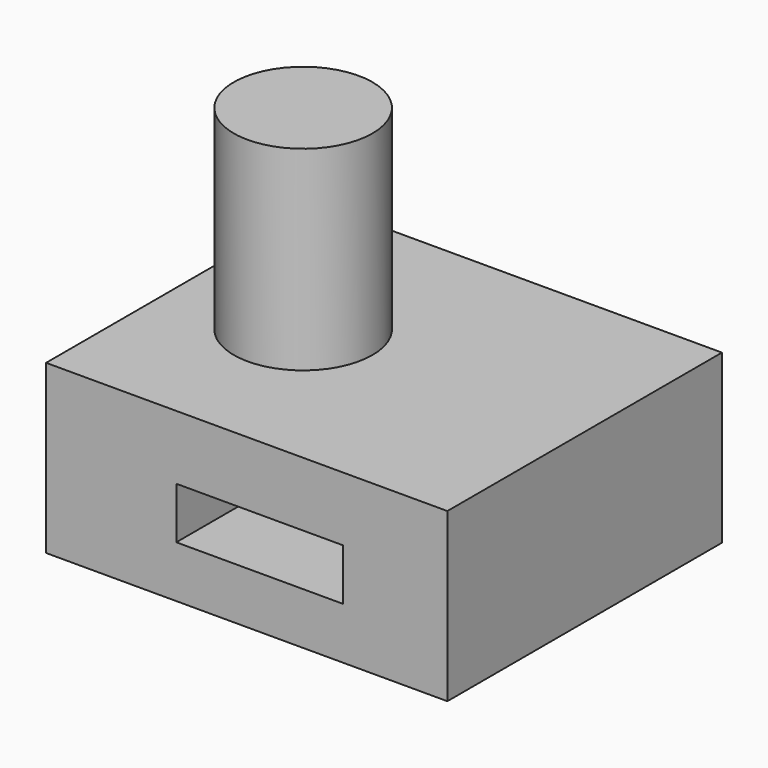
from build123d import *

# Parameters (mm, degrees)
F0_W     = 158.276036
F0_H     = 135.355964
F1_DEPTH = 66.04
F2_R     = 27.36159
F3_DEPTH = 76.962
F4_W     = 65.755699
F4_H     = 20.332886
F5_DEPTH = 178.308


with BuildPart() as f1:
    # F0 (on Top) → F1 (new body)
    with BuildSketch(Plane.XY):
        with Locations((-79.138018, -67.677982)):
            Rectangle(F0_W, F0_H)
    extrude(amount=F1_DEPTH)

    # F2 (on face) → F3 (join)
    with BuildSketch(Plane.XY.offset(66.04)):
        with Locations((-110.367209, -68.513423)):
            Circle(F2_R)
    extrude(amount=F3_DEPTH)

    # F4 (on face) → F5 (cut)
    with BuildSketch(Plane.XZ.offset(135.355964)):
        with Locations((-74.039189, 30.590639)):
            Rectangle(F4_W, F4_H)
    extrude(amount=-F5_DEPTH, mode=Mode.SUBTRACT)


solid = f1.part
